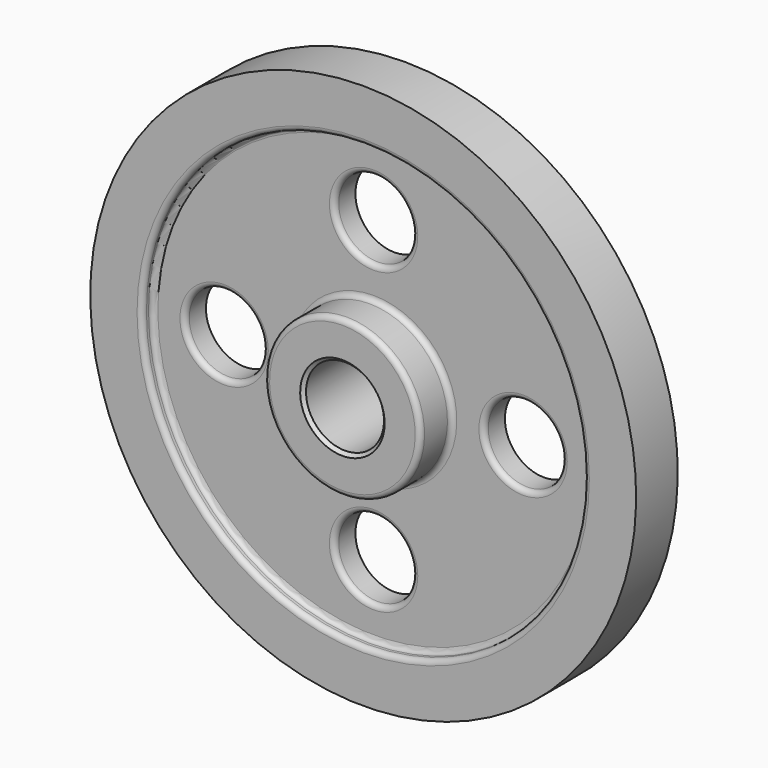
from build123d import *

# Parameters (mm, degrees)
F2_R     = 19.05
F3_DEPTH = 25.4
F4_R     = 2.54
F5_SIZE  = 1.5875


with BuildPart() as f1:
    # F0 (on Right) → F1 (revolve)
    with BuildSketch(Plane.YZ):
        Polygon((-25.4, 19.05), (0, 19.05), (25.4, 19.05), (25.4, 38.1), (6.35, 38.1), (6.35, 107.95), (12.7, 107.95), (12.7, 133.35), (0, 133.35), (-12.7, 133.35), (-12.7, 107.95), (-6.35, 107.95), (-6.35, 38.1), (-25.4, 38.1), align=None)
    revolve(axis=Axis((0, 37.9475988448, 0), (0, 1, 0)))

    # F2 (on face) → F3 (cut)
    with BuildSketch(Plane.XZ.offset(6.35)):
        with BuildLine():
            ThreePointArc((19.05, 73.025), (-13.4703841816, 86.4953841816), (0, 53.975))
            ThreePointArc((0, 53.975), (13.4703841816, 59.5546158184), (19.05, 73.025))
        make_face()
        with Locations((-73.025, 0)):
            Circle(F2_R)
        with Locations((0, -73.025)):
            Circle(F2_R)
        with Locations((73.025, 0)):
            Circle(F2_R)
    extrude(amount=-F3_DEPTH, mode=Mode.SUBTRACT)

    # F4
    f4_edges = [f1.edges().sort_by_distance(p)[0] for p in [
        (0, -25.4, -38.1),
        (0, -6.35, -38.1),
        (0, -6.35, -107.95),
        (-92.075, -6.35, 0),
        (-19.05, -6.35, -73.025),
        (0, -6.35, 92.075),
        (53.975, -6.35, 0),
        (0, -12.7, -107.95),
        (0, 6.35, -38.1),
        (0, 25.4, -38.1),
        (0, 6.35, -107.95),
        (0, 12.7, -107.95),
        (0, 9.525, 107.95),
    ]]
    fillet(f4_edges, radius=F4_R)

    # F5
    f5_edges = [f1.edges().sort_by_distance(p)[0] for p in [
        (0, 25.4, -19.05),
        (0, -25.4, -19.05),
        (0, 0, 19.05),
    ]]
    chamfer(f5_edges, length=F5_SIZE)


solid = f1.part
